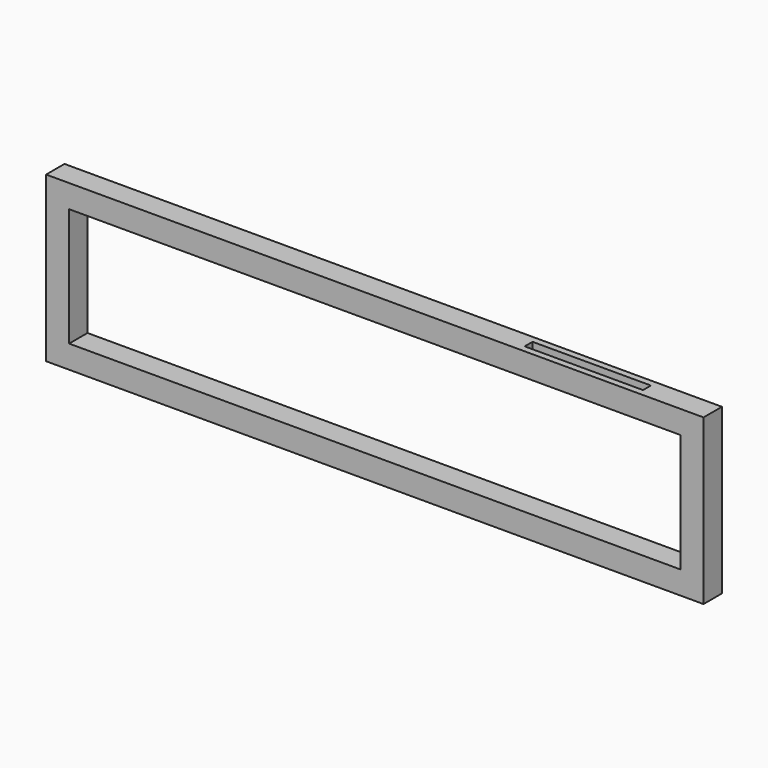
from build123d import *

# Parameters (mm, degrees)
F0_W          = 70
F0_H          = 70
F0_W_2        = 1860
F0_H_2        = 360
F1_DEPTH      = 70
F2_W          = 360
F2_H          = 30
F3_DEPTH      = 25
F3_DEPTH_BACK = 25
F4_SCALE      = 0.4


with BuildPart() as f1:
    # F0 (on Front) → F1 (new body)
    with BuildSketch(Plane.XZ):
        with Locations((35, -35)):
            Rectangle(F0_W, F0_H)
        with Locations((1000, -35)):
            Rectangle(F0_W_2, F0_H)
        with Locations((35, -250)):
            Rectangle(F0_W, F0_H_2)
        with Locations((1965, -35)):
            Rectangle(F0_W, F0_H)
        with Locations((35, -465)):
            Rectangle(F0_W, F0_H)
        with Locations((1965, -250)):
            Rectangle(F0_W, F0_H_2)
        with Locations((1000, -465)):
            Rectangle(F0_W_2, F0_H)
        with Locations((1965, -465)):
            Rectangle(F0_W, F0_H)
    extrude(amount=F1_DEPTH)

    # F2 (on face) → F3 (cut, two sides)
    with BuildSketch(Plane.XY) as f3_sk:
        with Locations((1620, -35)):
            Rectangle(F2_W, F2_H)
    extrude(amount=F3_DEPTH, mode=Mode.SUBTRACT)
    extrude(f3_sk.sketch, amount=-F3_DEPTH_BACK, mode=Mode.SUBTRACT)


with BuildPart() as f1_1:
    # F4: moved
    add(f1.part.scale(F4_SCALE).moved(Location((1200, -42, -300))))


solid = f1_1.part
